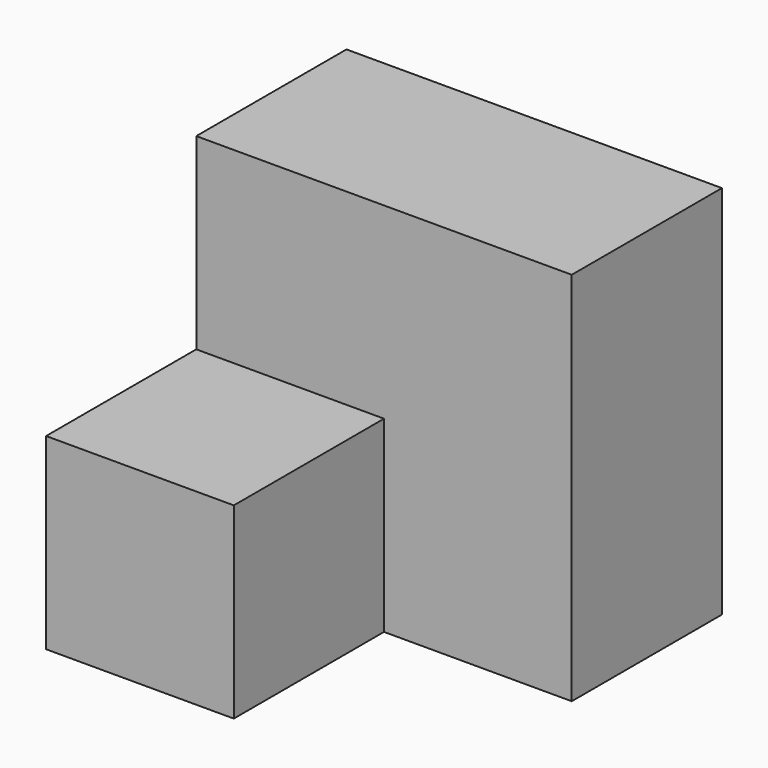
from build123d import *

# Parameters (mm, degrees)
F0_W     = 25.4
F0_H     = 25.4
F1_DEPTH = 25.4
F2_W     = 25.4
F2_H     = 25.4
F3_DEPTH = 25.4


with BuildPart() as f1:
    # F0 (on Front) → F1 (new body)
    with BuildSketch(Plane.XZ):
        Polygon((-25.030451, 43.695287), (-75.830451, 43.695287), (-75.830451, 18.295287), (-50.430451, 18.295287), (-50.430451, -7.104713), (-25.030451, -7.104713), align=None)
        with Locations((-63.130451, 5.595287)):
            Rectangle(F0_W, F0_H)
    extrude(amount=F1_DEPTH)

    # F2 (on face) → F3 (join)
    with BuildSketch(Plane.XZ.offset(25.4)):
        with Locations((-63.130451, 5.595287)):
            Rectangle(F2_W, F2_H)
    extrude(amount=F3_DEPTH)


solid = f1.part
